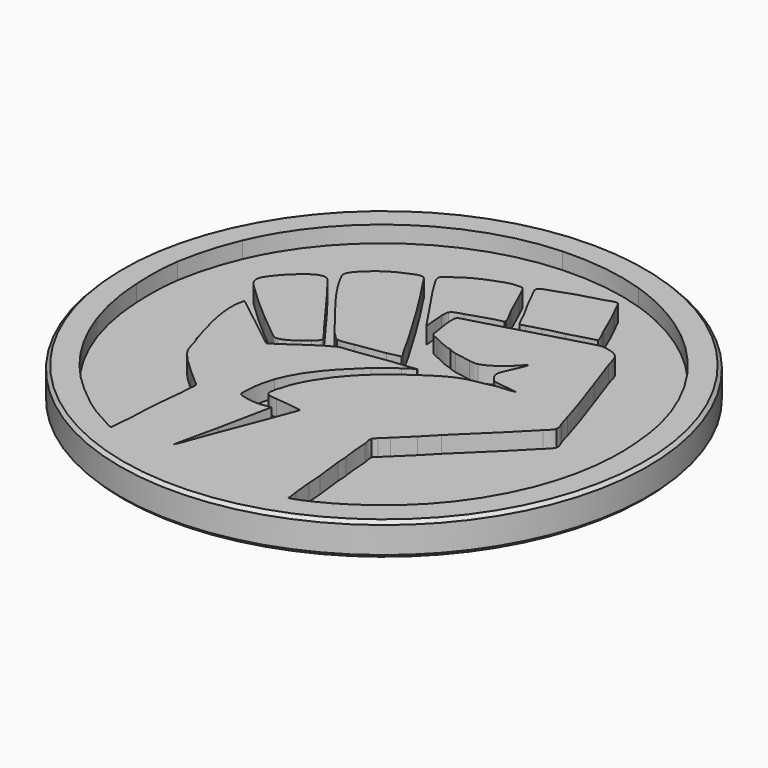
from build123d import *

# Parameters (mm, degrees)
POCKET_DEPTH = 1.25


with BuildPart() as part:
    # Sketch (on DatumPlane) → Revolution (revolve)
    with BuildSketch(Plane.YZ):
        Polygon((0, 0), (0, -2.5), (19.75, -2.5), (20, -2.25), (20, -0.25), (19.75, 0), align=None)
    revolve(axis=Axis((0, 0, 0), (0, 0, 1)))

    # Sketch005 → Pocket (cut)
    with BuildSketch(Plane.XY):
        with BuildLine():
            add(Edge.make_bspline(
                [(-7.633117, -16.27505), (-7.628128, -15.671095), (-7.524834, -15.0922), (-7.498531, -14.491406)],
                knots=[0, 0, 0, 0, 1, 1, 1, 1], degree=3))
            add(Edge.make_bspline(
                [(-7.498531, -14.491406), (-7.451524, -13.417607), (-7.437797, -12.328455), (-7.289732, -11.262783)],
                knots=[0, 0, 0, 0, 1, 1, 1, 1], degree=3))
            add(Edge.make_bspline(
                [(-7.289732, -11.262783), (-7.208655, -10.679374), (-7.150472, -10.06729), (-7.136067, -9.479139)],
                knots=[0, 0, 0, 0, 1, 1, 1, 1], degree=3))
            add(Edge.make_bspline(
                [(-7.136067, -9.479139), (-7.132116, -9.317482), (-7.05253, -9.0759), (-7.103194, -8.921919)],
                knots=[0, 0, 0, 0, 1, 1, 1, 1], degree=3))
            add(Edge.make_bspline(
                [(-7.103194, -8.921919), (-7.150337, -8.778776), (-7.389142, -8.650083), (-7.497651, -8.55187)],
                knots=[0, 0, 0, 0, 1, 1, 1, 1], degree=3))
            add(Edge.make_bspline(
                [(-7.497651, -8.55187), (-7.841488, -8.239845), (-8.192098, -7.935271), (-8.536228, -7.623923)],
                knots=[0, 0, 0, 0, 1, 1, 1, 1], degree=3))
            add(Edge.make_bspline(
                [(-8.536228, -7.623923), (-9.123702, -7.092442), (-9.804603, -6.494131), (-10.225407, -5.815669)],
                knots=[0, 0, 0, 0, 1, 1, 1, 1], degree=3))
            add(Edge.make_bspline(
                [(-10.225407, -5.815669), (-10.392912, -5.545639), (-10.44746, -5.194328), (-10.53592, -4.89585)],
                knots=[0, 0, 0, 0, 1, 1, 1, 1], degree=3))
            add(Edge.make_bspline(
                [(-10.53592, -4.89585), (-10.600176, -4.679103), (-10.715345, -4.46484), (-10.748851, -4.241095)],
                knots=[0, 0, 0, 0, 1, 1, 1, 1], degree=3))
            add(Edge.make_bspline(
                [(-10.748851, -4.241095), (-10.816584, -4.241095)],
                knots=[0, 0, 3, 3], degree=1))
            add(Edge.make_bspline(
                [(-10.816584, -4.241095), (-10.825389, -3.936746), (-10.971942, -3.670328), (-11.048345, -3.383139)],
                knots=[0, 0, 0, 0, 1, 1, 1, 1], degree=3))
            add(Edge.make_bspline(
                [(-11.048345, -3.383139), (-11.230706, -2.697903), (-11.445872, -1.977672), (-11.57829, -1.281374)],
                knots=[0, 0, 0, 0, 1, 1, 1, 1], degree=3))
            add(Edge.make_bspline(
                [(-11.57829, -1.281374), (-11.691766, -0.684711), (-11.759319, -0.017628), (-11.717663, 0.59055)],
                knots=[0, 0, 0, 0, 1, 1, 1, 1], degree=3))
            add(Edge.make_bspline(
                [(-11.717663, 0.59055), (-11.701994, 0.819624), (-11.625455, 1.039644), (-11.606806, 1.267883)],
                knots=[0, 0, 0, 0, 1, 1, 1, 1], degree=3))
            add(Edge.make_bspline(
                [(-11.606806, 1.267883), (-11.458086, 1.234175), (-11.384934, 1.130791), (-11.267259, 1.045018)],
                knots=[0, 0, 0, 0, 1, 1, 1, 1], degree=3))
            add(Edge.make_bspline(
                [(-11.267259, 1.045018), (-11.027889, 0.870537), (-10.805521, 0.672823), (-10.568228, 0.491637)],
                knots=[0, 0, 0, 0, 1, 1, 1, 1], degree=3))
            add(Edge.make_bspline(
                [(-10.568228, 0.491637), (-9.741791, -0.139457), (-8.944389, -0.812433), (-8.107251, -1.435354)],
                knots=[0, 0, 0, 0, 1, 1, 1, 1], degree=3))
            add(Edge.make_bspline(
                [(-8.107251, -1.435354), (-7.892468, -1.595205), (-7.685859, -1.768151), (-7.475073, -1.93342)],
                knots=[0, 0, 0, 0, 1, 1, 1, 1], degree=3))
            add(Edge.make_bspline(
                [(-7.475073, -1.93342), (-7.395418, -1.99596), (-7.283997, -2.119912), (-7.181562, -2.137749)],
                knots=[0, 0, 0, 0, 1, 1, 1, 1], degree=3))
            add(Edge.make_bspline(
                [(-7.181562, -2.137749), (-7.087074, -2.154231), (-6.98281, -2.039535), (-6.910628, -1.991219)],
                knots=[0, 0, 0, 0, 1, 1, 1, 1], degree=3))
            add(Edge.make_bspline(
                [(-6.910628, -1.991219), (-6.255873, -1.554339)],
                knots=[0, 0, 34.86291, 34.86291], degree=1))
            add(Edge.make_bspline(
                [(-6.255873, -1.554339), (-5.418892, -0.993733), (-4.572316, -0.333197), (-3.659428, 0.107972)],
                knots=[0, 0, 0, 0, 1, 1, 1, 1], degree=3))
            add(Edge.make_bspline(
                [(-3.659428, 0.107972), (-3.456635, 0.205983), (-3.181005, 0.210611), (-2.959517, 0.233121)],
                knots=[0, 0, 0, 0, 1, 1, 1, 1], degree=3))
            add(Edge.make_bspline(
                [(-2.959517, 0.233121), (-2.598092, 0.269833), (-2.236193, 0.323477), (-1.875784, 0.368926)],
                knots=[0, 0, 0, 0, 1, 1, 1, 1], degree=3))
            add(Edge.make_bspline(
                [(-1.875784, 0.368926), (-1.221119, 0.451471), (-0.56677, 0.581812), (0.088483, 0.655371)],
                knots=[0, 0, 0, 0, 1, 1, 1, 1], degree=3))
            add(Edge.make_bspline(
                [(0.088483, 0.655371), (0.679569, 0.721749), (1.287814, 0.730419), (1.872127, 0.838905)],
                knots=[0, 0, 0, 0, 1, 1, 1, 1], degree=3))
            add(Edge.make_bspline(
                [(1.872127, 0.838905), (1.872127, 0.816328)],
                knots=[0, 0, 1, 1], degree=1))
            add(Edge.make_bspline(
                [(1.872127, 0.816328), (1.58268, 0.731345), (1.30836, 0.504054), (1.059327, 0.338446)],
                knots=[0, 0, 0, 0, 1, 1, 1, 1], degree=3))
            add(Edge.make_bspline(
                [(1.059327, 0.338446), (0.554488, 0.00285), (0.054119, -0.342432), (-0.38766, -0.757795)],
                knots=[0, 0, 0, 0, 1, 1, 1, 1], degree=3))
            add(Edge.make_bspline(
                [(-0.38766, -0.757795), (-1.843362, -2.126008), (-3.243613, -3.510252), (-3.923385, -5.437717)],
                knots=[0, 0, 0, 0, 1, 1, 1, 1], degree=3))
            add(Edge.make_bspline(
                [(-3.923385, -5.437717), (-4.157946, -6.102858), (-4.314184, -6.807285), (-4.314184, -7.514872)],
                knots=[0, 0, 0, 0, 1, 1, 1, 1], degree=3))
            add(Edge.make_bspline(
                [(-4.314184, -7.514872), (-4.314184, -7.661628), (-4.384401, -8.066673), (-4.277992, -8.175724)],
                knots=[0, 0, 0, 0, 1, 1, 1, 1], degree=3))
            add(Edge.make_bspline(
                [(-4.277992, -8.175724), (-4.180501, -8.275743), (-3.926569, -8.315706), (-3.794895, -8.354766)],
                knots=[0, 0, 0, 0, 1, 1, 1, 1], degree=3))
            add(Edge.make_bspline(
                [(-3.794895, -8.354766), (-3.37908, -8.478266), (-2.895351, -8.508746), (-2.462806, -8.460204)],
                knots=[0, 0, 0, 0, 1, 1, 1, 1], degree=3))
            add(Edge.make_bspline(
                [(-2.462806, -8.460204), (-2.246669, -8.436046), (-2.051687, -8.372828), (-1.830628, -8.372828)],
                knots=[0, 0, 0, 0, 1, 1, 1, 1], degree=3))
            add(Edge.make_bspline(
                [(-1.830628, -8.372828), (-2.65693, -12.41425)],
                knots=[0, 0, 182.703075, 182.703075], degree=1))
            add(Edge.make_bspline(
                [(-2.65693, -12.41425), (-3.129144, -14.513983)],
                knots=[0, 0, 95.322805, 95.322805], degree=1))
            add(Edge.make_bspline(
                [(-3.129144, -14.513983), (-3.388495, -15.733183)],
                knots=[0, 0, 55.208253, 55.208253], degree=1))
            add(Edge.make_bspline(
                [(-3.388495, -15.733183), (-3.159263, -15.213895)],
                knots=[0, 0, 25.141269, 25.141269], degree=1))
            add(Edge.make_bspline(
                [(-3.159263, -15.213895), (-2.619293, -13.723761)],
                knots=[0, 0, 70.199537, 70.199537], degree=1))
            add(Edge.make_bspline(
                [(-2.619293, -13.723761), (-0.955649, -9.411406)],
                knots=[0, 0, 204.72049, 204.72049], degree=1))
            add(Edge.make_bspline(
                [(-0.955649, -9.411406), (-0.429903, -8.011583)],
                knots=[0, 0, 66.228678, 66.228678], degree=1))
            add(Edge.make_bspline(
                [(-0.429903, -8.011583), (-0.272762, -7.582606)],
                knots=[0, 0, 20.234663, 20.234663], degree=1))
            add(Edge.make_bspline(
                [(-0.272762, -7.582606), (-0.933636, -7.493649), (-1.613949, -7.354119), (-2.282184, -7.334476)],
                knots=[0, 0, 0, 0, 1, 1, 1, 1], degree=3))
            add(Edge.make_bspline(
                [(-2.282184, -7.334476), (-2.469083, -7.329057), (-2.968661, -7.282321), (-3.071774, -7.104183)],
                knots=[0, 0, 0, 0, 1, 1, 1, 1], degree=3))
            add(Edge.make_bspline(
                [(-3.071774, -7.104183), (-3.199135, -6.884275), (-3.004853, -6.426172), (-3.004673, -6.182783)],
                knots=[0, 0, 0, 0, 1, 1, 1, 1], degree=3))
            add(Edge.make_bspline(
                [(-3.004673, -6.182783), (-2.936939, -6.182783)],
                knots=[0, 0, 3, 3], degree=1))
            add(Edge.make_bspline(
                [(-2.936939, -6.182783), (-2.827573, -5.438846), (-2.421805, -4.697843), (-2.043898, -4.060472)],
                knots=[0, 0, 0, 0, 1, 1, 1, 1], degree=3))
            add(Edge.make_bspline(
                [(-2.043898, -4.060472), (-0.990667, -2.284053), (0.624028, -0.886714), (2.323683, 0.251906)],
                knots=[0, 0, 0, 0, 1, 1, 1, 1], degree=3))
            add(Edge.make_bspline(
                [(2.323683, 0.251906), (3.020659, 0.718724), (3.764822, 1.2351), (4.558883, 1.520506)],
                knots=[0, 0, 0, 0, 1, 1, 1, 1], degree=3))
            add(Edge.make_bspline(
                [(4.558883, 1.520506), (5.065528, 1.702573), (5.633359, 1.786246), (6.161679, 1.884008)],
                knots=[0, 0, 0, 0, 1, 1, 1, 1], degree=3))
            add(Edge.make_bspline(
                [(6.161679, 1.884008), (6.415679, 1.93106), (6.666744, 2.025706), (6.929549, 2.055193)],
                knots=[0, 0, 0, 0, 1, 1, 1, 1], degree=3))
            add(Edge.make_bspline(
                [(6.929549, 2.055193), (7.346787, 2.102042), (7.782764, 2.092288), (8.193905, 2.193572)],
                knots=[0, 0, 0, 0, 1, 1, 1, 1], degree=3))
            add(Edge.make_bspline(
                [(8.193905, 2.193572), (8.193905, 2.21615)],
                knots=[0, 0, 1, 1], degree=1))
            add(Edge.make_bspline(
                [(8.193905, 2.21615), (7.763798, 2.258957), (7.310437, 2.302555), (6.884394, 2.387741)],
                knots=[0, 0, 0, 0, 1, 1, 1, 1], degree=3))
            add(Edge.make_bspline(
                [(6.884394, 2.387741), (6.733349, 2.41795), (6.548437, 2.423143), (6.411164, 2.495979)],
                knots=[0, 0, 0, 0, 1, 1, 1, 1], degree=3))
            add(Edge.make_bspline(
                [(6.411164, 2.495979), (6.179516, 2.618892), (5.911066, 3.009127), (5.897293, 3.277305)],
                knots=[0, 0, 0, 0, 1, 1, 1, 1], degree=3))
            add(Edge.make_bspline(
                [(5.897293, 3.277305), (5.886908, 3.478586), (6.015827, 3.70319), (6.084689, 3.886905)],
                knots=[0, 0, 0, 0, 1, 1, 1, 1], degree=3))
            add(Edge.make_bspline(
                [(6.084689, 3.886905), (6.264634, 4.368512), (6.539405, 4.83953), (6.681194, 5.331883)],
                knots=[0, 0, 0, 0, 1, 1, 1, 1], degree=3))
            add(Edge.make_bspline(
                [(6.681194, 5.331883), (6.443224, 5.220868), (6.265085, 4.946322), (6.071594, 4.771277)],
                knots=[0, 0, 0, 0, 1, 1, 1, 1], degree=3))
            add(Edge.make_bspline(
                [(6.071594, 4.771277), (5.546661, 4.296399), (4.945866, 3.764714), (4.242794, 3.587976)],
                knots=[0, 0, 0, 0, 1, 1, 1, 1], degree=3))
            add(Edge.make_bspline(
                [(4.242794, 3.587976), (4.025821, 3.533428), (3.803205, 3.588676), (3.588038, 3.612044)],
                knots=[0, 0, 0, 0, 1, 1, 1, 1], degree=3))
            add(Edge.make_bspline(
                [(3.588038, 3.612044), (3.172833, 3.657177), (2.755596, 3.744394), (2.346261, 3.827706)],
                knots=[0, 0, 0, 0, 1, 1, 1, 1], degree=3))
            add(Edge.make_bspline(
                [(2.346261, 3.827706), (2.185733, 3.860399), (2.037171, 3.938202), (1.872127, 3.954639)],
                knots=[0, 0, 0, 0, 1, 1, 1, 1], degree=3))
            add(Edge.make_bspline(
                [(1.872127, 3.954639), (1.872127, 4.022372)],
                knots=[0, 0, 3, 3], degree=1))
            add(Edge.make_bspline(
                [(1.872127, 4.022372), (1.347194, 4.112706), (0.789071, 4.41159), (0.314261, 4.648973)],
                knots=[0, 0, 0, 0, 1, 1, 1, 1], degree=3))
            add(Edge.make_bspline(
                [(0.314261, 4.648973), (0.182858, 4.714674), (-0.104422, 4.783085), (-0.182722, 4.907173)],
                knots=[0, 0, 0, 0, 1, 1, 1, 1], degree=3))
            add(Edge.make_bspline(
                [(-0.182722, 4.907173), (-0.243546, 5.00358), (-0.238443, 5.15449), (-0.260321, 5.26415)],
                knots=[0, 0, 0, 0, 1, 1, 1, 1], degree=3))
            add(Edge.make_bspline(
                [(-0.260321, 5.26415), (-0.320243, 5.564367), (-0.346298, 5.866683), (-0.403781, 6.167261)],
                knots=[0, 0, 0, 0, 1, 1, 1, 1], degree=3))
            add(Edge.make_bspline(
                [(-0.403781, 6.167261), (-0.459322, 6.457589), (-0.475962, 6.752183), (-0.475962, 7.047794)],
                knots=[0, 0, 0, 0, 1, 1, 1, 1], degree=3))
            add(Edge.make_bspline(
                [(-0.475962, 7.047794), (-0.475962, 7.167095), (-0.498607, 7.311593), (-0.403081, 7.402198)],
                knots=[0, 0, 0, 0, 1, 1, 1, 1], degree=3))
            add(Edge.make_bspline(
                [(-0.403081, 7.402198), (-0.264589, 7.53351), (0.044208, 7.570921), (0.223949, 7.625086)],
                knots=[0, 0, 0, 0, 1, 1, 1, 1], degree=3))
            add(Edge.make_bspline(
                [(0.223949, 7.625086), (0.784104, 7.793809), (1.350355, 7.949596), (1.917283, 8.097164)],
                knots=[0, 0, 0, 0, 1, 1, 1, 1], degree=3))
            add(Edge.make_bspline(
                [(1.917283, 8.097164), (3.489599, 8.506454), (5.050175, 8.982439), (6.613461, 9.428102)],
                knots=[0, 0, 0, 0, 1, 1, 1, 1], degree=3))
            add(Edge.make_bspline(
                [(6.613461, 9.428102), (7.072015, 9.558872), (7.529893, 9.691359), (7.990705, 9.815446)],
                knots=[0, 0, 0, 0, 1, 1, 1, 1], degree=3))
            add(Edge.make_bspline(
                [(7.990705, 9.815446), (8.230029, 9.879883), (8.483804, 9.963963), (8.735772, 9.931225)],
                knots=[0, 0, 0, 0, 1, 1, 1, 1], degree=3))
            add(Edge.make_bspline(
                [(8.735772, 9.931225), (9.140365, 9.878664), (9.636851, 9.774332), (9.927653, 9.461517)],
                knots=[0, 0, 0, 0, 1, 1, 1, 1], degree=3))
            add(Edge.make_bspline(
                [(9.927653, 9.461517), (10.157946, 9.213703), (10.236742, 8.677842), (10.343535, 8.357305)],
                knots=[0, 0, 0, 0, 1, 1, 1, 1], degree=3))
            add(Edge.make_bspline(
                [(10.343535, 8.357305), (10.617855, 7.532133), (10.925139, 6.717369), (11.208038, 5.896328)],
                knots=[0, 0, 0, 0, 1, 1, 1, 1], degree=3))
            add(Edge.make_bspline(
                [(11.208038, 5.896328), (11.697299, 4.477156), (12.19559, 3.069161), (12.616214, 1.629128)],
                knots=[0, 0, 0, 0, 1, 1, 1, 1], degree=3))
            add(Edge.make_bspline(
                [(12.616214, 1.629128), (12.702461, 1.334352), (12.770646, 1.00991), (12.885116, 0.726017)],
                knots=[0, 0, 0, 0, 1, 1, 1, 1], degree=3))
            add(Edge.make_bspline(
                [(12.885116, 0.726017), (12.968202, 0.519362), (13.126246, 0.236734), (13.05919, 0.003528)],
                knots=[0, 0, 0, 0, 1, 1, 1, 1], degree=3))
            add(Edge.make_bspline(
                [(13.05919, 0.003528), (12.994844, -0.220308), (12.711718, -0.444935), (12.551416, -0.606072)],
                knots=[0, 0, 0, 0, 1, 1, 1, 1], degree=3))
            add(Edge.make_bspline(
                [(12.551416, -0.606072), (12.149306, -1.010215), (11.757807, -1.422259), (11.354794, -1.825272)],
                knots=[0, 0, 0, 0, 1, 1, 1, 1], degree=3))
            add(Edge.make_bspline(
                [(11.354794, -1.825272), (10.333149, -2.846917), (9.287798, -3.841919), (8.25622, -4.849791)],
                knots=[0, 0, 0, 0, 1, 1, 1, 1], degree=3))
            add(Edge.make_bspline(
                [(8.25622, -4.849791), (7.917101, -5.181233), (7.614559, -5.557605), (7.261669, -5.877758)],
                knots=[0, 0, 0, 0, 1, 1, 1, 1], degree=3))
            add(Edge.make_bspline(
                [(7.261669, -5.877758), (6.860461, -6.241711), (6.502604, -6.660529), (6.09214, -7.014097)],
                knots=[0, 0, 0, 0, 1, 1, 1, 1], degree=3))
            add(Edge.make_bspline(
                [(6.09214, -7.014097), (5.904744, -7.175528), (5.7467, -7.336056), (5.574431, -7.514872)],
                knots=[0, 0, 0, 0, 1, 1, 1, 1], degree=3))
            add(Edge.make_bspline(
                [(5.574431, -7.514872), (5.490668, -7.601797), (5.36062, -7.691882), (5.317496, -7.808383)],
                knots=[0, 0, 0, 0, 1, 1, 1, 1], degree=3))
            add(Edge.make_bspline(
                [(5.317496, -7.808383), (5.234861, -8.032807), (5.383197, -8.308255), (5.393357, -8.530872)],
                knots=[0, 0, 0, 0, 1, 1, 1, 1], degree=3))
            add(Edge.make_bspline(
                [(5.393357, -8.530872), (5.424966, -9.218817), (5.480508, -9.906762), (5.59159, -10.58545)],
                knots=[0, 0, 0, 0, 1, 1, 1, 1], degree=3))
            add(Edge.make_bspline(
                [(5.59159, -10.58545), (5.636294, -10.85819), (5.620038, -11.145379), (5.646454, -11.420828)],
                knots=[0, 0, 0, 0, 1, 1, 1, 1], degree=3))
            add(Edge.make_bspline(
                [(5.646454, -11.420828), (5.710575, -12.091614), (5.81511, -12.758787), (5.887133, -13.43025)],
                knots=[0, 0, 0, 0, 1, 1, 1, 1], degree=3))
            add(Edge.make_bspline(
                [(5.887133, -13.43025), (5.92687, -13.802783), (5.91671, -14.185477), (5.96164, -14.557107)],
                knots=[0, 0, 0, 0, 1, 1, 1, 1], degree=3))
            add(Edge.make_bspline(
                [(5.96164, -14.557107), (6.01673, -15.013404), (6.043146, -15.476926), (6.098236, -15.936383)],
                knots=[0, 0, 0, 0, 1, 1, 1, 1], degree=3))
            add(Edge.make_bspline(
                [(6.098236, -15.936383), (6.134134, -16.23441), (6.207061, -16.514826), (6.207061, -16.816917)],
                knots=[0, 0, 0, 0, 1, 1, 1, 1], degree=3))
            add(Edge.make_bspline(
                [(6.207061, -16.816917), (6.70332, -16.724574), (7.172938, -16.476444), (7.629461, -16.26489)],
                knots=[0, 0, 0, 0, 1, 1, 1, 1], degree=3))
            add(Edge.make_bspline(
                [(7.629461, -16.26489), (8.704163, -15.766824), (9.669589, -15.142549), (10.622145, -14.45212)],
                knots=[0, 0, 0, 0, 1, 1, 1, 1], degree=3))
            add(Edge.make_bspline(
                [(10.622145, -14.45212), (15.648636, -10.809647), (18.43225, -4.621756), (17.859452, 1.538817)],
                knots=[0, 0, 0, 0, 1, 1, 1, 1], degree=3))
            add(Edge.make_bspline(
                [(17.859452, 1.538817), (17.771173, 2.488957), (17.684022, 3.40347), (17.456438, 4.338461)],
                knots=[0, 0, 0, 0, 1, 1, 1, 1], degree=3))
            add(Edge.make_bspline(
                [(17.456438, 4.338461), (16.004461, 10.305587), (11.42185, 15.192728), (5.597461, 17.132046)],
                knots=[0, 0, 0, 0, 1, 1, 1, 1], degree=3))
            add(Edge.make_bspline(
                [(5.597461, 17.132046), (3.535658, 17.818591), (1.289395, 18.092234), (-0.882362, 17.997136)],
                knots=[0, 0, 0, 0, 1, 1, 1, 1], degree=3))
            add(Edge.make_bspline(
                [(-0.882362, 17.997136), (-7.548722, 17.705183), (-13.880072, 13.465753), (-16.522259, 7.273572)],
                knots=[0, 0, 0, 0, 1, 1, 1, 1], degree=3))
            add(Edge.make_bspline(
                [(-16.522259, 7.273572), (-17.135856, 5.835593), (-17.581518, 4.299808), (-17.830935, 2.758017)],
                knots=[0, 0, 0, 0, 1, 1, 1, 1], degree=3))
            add(Edge.make_bspline(
                [(-17.830935, 2.758017), (-18.030906, 1.521928), (-18.006658, 0.25545), (-17.952042, -0.989895)],
                knots=[0, 0, 0, 0, 1, 1, 1, 1], degree=3))
            add(Edge.make_bspline(
                [(-17.952042, -0.989895), (-17.743943, -5.735292), (-15.555276, -10.326483), (-11.953939, -13.445603)],
                knots=[0, 0, 0, 0, 1, 1, 1, 1], degree=3))
            add(Edge.make_bspline(
                [(-11.953939, -13.445603), (-10.925386, -14.336522), (-9.826345, -15.227215), (-8.583393, -15.810625)],
                knots=[0, 0, 0, 0, 1, 1, 1, 1], degree=3))
            add(Edge.make_bspline(
                [(-8.583393, -15.810625), (-8.275026, -15.955349), (-7.975396, -16.21409), (-7.633117, -16.27505)],
                knots=[0, 0, 0, 0, 1, 1, 1, 1], degree=3))
        make_face()
        with BuildLine():
            add(Edge.make_bspline(
                [(7.877816, 10.411883), (7.846885, 10.764164), (7.5755, 11.173409), (7.431679, 11.495617)],
                knots=[0, 0, 0, 0, 1, 1, 1, 1], degree=3))
            add(Edge.make_bspline(
                [(7.431679, 11.495617), (7.080369, 12.282384), (6.771053, 13.089156), (6.371878, 13.843705)],
                knots=[0, 0, 0, 0, 1, 1, 1, 1], degree=3))
            add(Edge.make_bspline(
                [(6.371878, 13.843705), (6.247701, 14.078176), (6.122845, 14.316191), (6.013343, 14.557502)],
                knots=[0, 0, 0, 0, 1, 1, 1, 1], degree=3))
            add(Edge.make_bspline(
                [(6.013343, 14.557502), (5.967962, 14.657363), (5.953964, 14.796555), (5.839043, 14.846091)],
                knots=[0, 0, 0, 0, 1, 1, 1, 1], degree=3))
            add(Edge.make_bspline(
                [(5.839043, 14.846091), (5.619361, 14.940737), (5.265116, 14.75289), (5.055368, 14.689469)],
                knots=[0, 0, 0, 0, 1, 1, 1, 1], degree=3))
            add(Edge.make_bspline(
                [(5.055368, 14.689469), (4.45209, 14.507199), (3.831878, 14.343713), (3.226794, 14.169503)],
                knots=[0, 0, 0, 0, 1, 1, 1, 1], degree=3))
            add(Edge.make_bspline(
                [(3.226794, 14.169503), (2.664156, 14.00753), (2.146673, 13.810426), (1.601194, 13.603591)],
                knots=[0, 0, 0, 0, 1, 1, 1, 1], degree=3))
            add(Edge.make_bspline(
                [(1.601194, 13.603591), (1.429829, 13.538612), (1.068358, 13.459477), (0.969693, 13.294478)],
                knots=[0, 0, 0, 0, 1, 1, 1, 1], degree=3))
            add(Edge.make_bspline(
                [(0.969693, 13.294478), (0.881866, 13.147881), (1.037653, 12.893023), (1.097484, 12.759972)],
                knots=[0, 0, 0, 0, 1, 1, 1, 1], degree=3))
            add(Edge.make_bspline(
                [(1.097484, 12.759972), (1.302038, 12.306768), (1.555135, 11.874223), (1.763528, 11.427003)],
                knots=[0, 0, 0, 0, 1, 1, 1, 1], degree=3))
            add(Edge.make_bspline(
                [(1.763528, 11.427003), (2.006917, 10.904621), (2.361388, 10.429855), (2.577231, 9.892594)],
                knots=[0, 0, 0, 0, 1, 1, 1, 1], degree=3))
            add(Edge.make_bspline(
                [(2.577231, 9.892594), (2.653544, 9.70276), (2.745436, 9.530921), (2.842972, 9.350728)],
                knots=[0, 0, 0, 0, 1, 1, 1, 1], degree=3))
            add(Edge.make_bspline(
                [(2.842972, 9.350728), (2.879096, 9.28401), (2.917253, 9.165725), (2.987244, 9.127614)],
                knots=[0, 0, 0, 0, 1, 1, 1, 1], degree=3))
            add(Edge.make_bspline(
                [(2.987244, 9.127614), (3.081845, 9.076137), (3.288657, 9.172047), (3.384838, 9.199231)],
                knots=[0, 0, 0, 0, 1, 1, 1, 1], degree=3))
            add(Edge.make_bspline(
                [(3.384838, 9.199231), (3.724182, 9.295119), (4.068268, 9.366735), (4.400838, 9.485404)],
                knots=[0, 0, 0, 0, 1, 1, 1, 1], degree=3))
            add(Edge.make_bspline(
                [(4.400838, 9.485404), (4.877907, 9.655641), (5.395841, 9.726399), (5.890972, 9.856854)],
                knots=[0, 0, 0, 0, 1, 1, 1, 1], degree=3))
            add(Edge.make_bspline(
                [(5.890972, 9.856854), (6.556565, 10.03217), (7.216739, 10.245959), (7.877816, 10.411883)],
                knots=[0, 0, 0, 0, 1, 1, 1, 1], degree=3))
        make_face(mode=Mode.SUBTRACT)
        with BuildLine():
            add(Edge.make_bspline(
                [(-1.198451, 5.512505), (-1.175873, 5.512505)],
                knots=[0, 0, 1, 1], degree=1))
            add(Edge.make_bspline(
                [(-1.175873, 5.512505), (-1.19818, 6.032336), (-1.311136, 6.547787), (-1.311339, 7.070372)],
                knots=[0, 0, 0, 0, 1, 1, 1, 1], degree=3))
            add(Edge.make_bspline(
                [(-1.311339, 7.070372), (-1.311407, 7.261448), (-1.336423, 7.505807), (-1.240445, 7.679882)],
                knots=[0, 0, 0, 0, 1, 1, 1, 1], degree=3))
            add(Edge.make_bspline(
                [(-1.240445, 7.679882), (-1.10324, 7.928757), (-0.636603, 8.003602), (-0.385651, 8.08206)],
                knots=[0, 0, 0, 0, 1, 1, 1, 1], degree=3))
            add(Edge.make_bspline(
                [(-0.385651, 8.08206), (0.412925, 8.331702), (1.250335, 8.669059), (2.075327, 8.808861)],
                knots=[0, 0, 0, 0, 1, 1, 1, 1], degree=3))
            add(Edge.make_bspline(
                [(2.075327, 8.808861), (2.143061, 8.876594)],
                knots=[0, 0, 4.242641, 4.242641], degree=1))
            add(Edge.make_bspline(
                [(2.143061, 8.876594), (1.978017, 9.327585), (1.703923, 9.75487), (1.491917, 10.186105)],
                knots=[0, 0, 0, 0, 1, 1, 1, 1], degree=3))
            add(Edge.make_bspline(
                [(1.491917, 10.186105), (1.227983, 10.72287), (1.00356, 11.288194), (0.749786, 11.834283)],
                knots=[0, 0, 0, 0, 1, 1, 1, 1], degree=3))
            add(Edge.make_bspline(
                [(0.749786, 11.834283), (0.633962, 12.083768), (0.518138, 12.33341), (0.394637, 12.57935)],
                knots=[0, 0, 0, 0, 1, 1, 1, 1], degree=3))
            add(Edge.make_bspline(
                [(0.394637, 12.57935), (0.347901, 12.672867), (0.294844, 12.819126), (0.199114, 12.872229)],
                knots=[0, 0, 0, 0, 1, 1, 1, 1], degree=3))
            add(Edge.make_bspline(
                [(0.199114, 12.872229), (0.109254, 12.92199), (-0.037998, 12.895484), (-0.137295, 12.895439)],
                knots=[0, 0, 0, 0, 1, 1, 1, 1], degree=3))
            add(Edge.make_bspline(
                [(-0.137295, 12.895439), (-0.466163, 12.895303), (-0.779768, 12.83712), (-1.087571, 12.729944)],
                knots=[0, 0, 0, 0, 1, 1, 1, 1], degree=3))
            add(Edge.make_bspline(
                [(-1.087571, 12.729944), (-1.993595, 12.414487), (-2.827979, 12.103749), (-3.614273, 11.525442)],
                knots=[0, 0, 0, 0, 1, 1, 1, 1], degree=3))
            add(Edge.make_bspline(
                [(-3.614273, 11.525442), (-3.841112, 11.358592), (-4.080368, 11.207547), (-4.291606, 11.020354)],
                knots=[0, 0, 0, 0, 1, 1, 1, 1], degree=3))
            add(Edge.make_bspline(
                [(-4.291606, 11.020354), (-4.364555, 10.955714), (-4.493045, 10.879469), (-4.503341, 10.773105)],
                knots=[0, 0, 0, 0, 1, 1, 1, 1], degree=3))
            add(Edge.make_bspline(
                [(-4.503341, 10.773105), (-4.518942, 10.612058), (-4.391061, 10.38768), (-4.314184, 10.253839)],
                knots=[0, 0, 0, 0, 1, 1, 1, 1], degree=3))
            add(Edge.make_bspline(
                [(-4.314184, 10.253839), (-4.117148, 9.910792), (-3.916296, 9.567294), (-3.697066, 9.237839)],
                knots=[0, 0, 0, 0, 1, 1, 1, 1], degree=3))
            add(Edge.make_bspline(
                [(-3.697066, 9.237839), (-2.87108, 7.996603), (-2.025362, 6.761124), (-1.198451, 5.512505)],
                knots=[0, 0, 0, 0, 1, 1, 1, 1], degree=3))
        make_face(mode=Mode.SUBTRACT)
        with BuildLine():
            add(Edge.make_bspline(
                [(0.133638, 1.516239), (0.080806, 1.762878), (-0.098439, 1.916836), (-0.208641, 2.127058)],
                knots=[0, 0, 0, 0, 1, 1, 1, 1], degree=3))
            add(Edge.make_bspline(
                [(-0.208641, 2.127058), (-0.469798, 2.625304), (-0.735561, 3.111562), (-1.02257, 3.597233)],
                knots=[0, 0, 0, 0, 1, 1, 1, 1], degree=3))
            add(Edge.make_bspline(
                [(-1.02257, 3.597233), (-1.931822, 5.135818), (-2.83394, 6.673681), (-3.801849, 8.176683)],
                knots=[0, 0, 0, 0, 1, 1, 1, 1], degree=3))
            add(Edge.make_bspline(
                [(-3.801849, 8.176683), (-4.123695, 8.676487), (-4.450892, 9.171957), (-4.780799, 9.666817)],
                knots=[0, 0, 0, 0, 1, 1, 1, 1], degree=3))
            add(Edge.make_bspline(
                [(-4.780799, 9.666817), (-4.896578, 9.840507), (-5.053087, 10.177142), (-5.240776, 10.275784)],
                knots=[0, 0, 0, 0, 1, 1, 1, 1], degree=3))
            add(Edge.make_bspline(
                [(-5.240776, 10.275784), (-5.541738, 10.433964), (-6.023006, 10.13), (-6.301028, 10.02928)],
                knots=[0, 0, 0, 0, 1, 1, 1, 1], degree=3))
            add(Edge.make_bspline(
                [(-6.301028, 10.02928), (-7.102291, 9.738998), (-7.83722, 9.212868), (-8.452352, 8.626433)],
                knots=[0, 0, 0, 0, 1, 1, 1, 1], degree=3))
            add(Edge.make_bspline(
                [(-8.452352, 8.626433), (-8.68558, 8.404064), (-8.963671, 8.135253), (-9.099973, 7.838017)],
                knots=[0, 0, 0, 0, 1, 1, 1, 1], degree=3))
            add(Edge.make_bspline(
                [(-9.099973, 7.838017), (-9.238984, 7.534932), (-9.108169, 7.405042), (-8.983494, 7.137225)],
                knots=[0, 0, 0, 0, 1, 1, 1, 1], degree=3))
            add(Edge.make_bspline(
                [(-8.983494, 7.137225), (-8.806552, 6.757038), (-8.58179, 6.41144), (-8.359941, 6.054372)],
                knots=[0, 0, 0, 0, 1, 1, 1, 1], degree=3))
            add(Edge.make_bspline(
                [(-8.359941, 6.054372), (-7.517, 4.697561), (-6.461602, 3.512385), (-5.516451, 2.238728)],
                knots=[0, 0, 0, 0, 1, 1, 1, 1], degree=3))
            add(Edge.make_bspline(
                [(-5.516451, 2.238728), (-5.238021, 1.863508), (-4.961128, 1.482846), (-4.607695, 1.171115)],
                knots=[0, 0, 0, 0, 1, 1, 1, 1], degree=3))
            add(Edge.make_bspline(
                [(-4.607695, 1.171115), (-4.509008, 1.084078), (-4.397022, 0.903658), (-4.267019, 0.868663)],
                knots=[0, 0, 0, 0, 1, 1, 1, 1], degree=3))
            add(Edge.make_bspline(
                [(-4.267019, 0.868663), (-3.886538, 0.766273), (-3.423965, 0.917657), (-3.049828, 0.969653)],
                knots=[0, 0, 0, 0, 1, 1, 1, 1], degree=3))
            add(Edge.make_bspline(
                [(-3.049828, 0.969653), (-2.318624, 1.071253), (-1.590265, 1.171724), (-0.859784, 1.304324)],
                knots=[0, 0, 0, 0, 1, 1, 1, 1], degree=3))
            add(Edge.make_bspline(
                [(-0.859784, 1.304324), (-0.529765, 1.364245), (-0.200671, 1.487091), (0.133638, 1.516239)],
                knots=[0, 0, 0, 0, 1, 1, 1, 1], degree=3))
        make_face(mode=Mode.SUBTRACT)
        with BuildLine():
            add(Edge.make_bspline(
                [(-10.048939, 6.674855), (-10.539216, 6.570297), (-10.967245, 6.176337), (-11.335873, 5.860677)],
                knots=[0, 0, 0, 0, 1, 1, 1, 1], degree=3))
            add(Edge.make_bspline(
                [(-11.335873, 5.860677), (-11.747804, 5.5079), (-12.09846, 5.110937), (-12.423015, 4.677466)],
                knots=[0, 0, 0, 0, 1, 1, 1, 1], degree=3))
            add(Edge.make_bspline(
                [(-12.423015, 4.677466), (-12.614565, 4.421638), (-12.798619, 4.155378), (-12.77988, 3.819172)],
                knots=[0, 0, 0, 0, 1, 1, 1, 1], degree=3))
            add(Edge.make_bspline(
                [(-12.77988, 3.819172), (-12.756489, 3.399835), (-12.237629, 3.028363), (-11.968073, 2.758017)],
                knots=[0, 0, 0, 0, 1, 1, 1, 1], degree=3))
            add(Edge.make_bspline(
                [(-11.968073, 2.758017), (-11.164733, 1.952396), (-10.32572, 1.231014), (-9.463611, 0.493556)],
                knots=[0, 0, 0, 0, 1, 1, 1, 1], degree=3))
            add(Edge.make_bspline(
                [(-9.463611, 0.493556), (-8.913571, 0.02308), (-8.361431, -0.438003), (-7.791162, -0.881747)],
                knots=[0, 0, 0, 0, 1, 1, 1, 1], degree=3))
            add(Edge.make_bspline(
                [(-7.791162, -0.881747), (-7.569222, -1.054241), (-7.327414, -1.317272), (-7.023517, -1.248862)],
                knots=[0, 0, 0, 0, 1, 1, 1, 1], degree=3))
            add(Edge.make_bspline(
                [(-7.023517, -1.248862), (-6.414617, -1.11204), (-5.794293, -0.614878), (-5.329303, -0.220105)],
                knots=[0, 0, 0, 0, 1, 1, 1, 1], degree=3))
            add(Edge.make_bspline(
                [(-5.329303, -0.220105), (-5.191331, -0.102972), (-4.895946, 0.114859), (-4.909424, 0.319617)],
                knots=[0, 0, 0, 0, 1, 1, 1, 1], degree=3))
            add(Edge.make_bspline(
                [(-4.909424, 0.319617), (-4.918568, 0.45847), (-5.013282, 0.530764), (-5.084538, 0.636586)],
                knots=[0, 0, 0, 0, 1, 1, 1, 1], degree=3))
            add(Edge.make_bspline(
                [(-5.084538, 0.636586), (-5.276223, 0.921292), (-5.497982, 1.177279), (-5.701701, 1.450515)],
                knots=[0, 0, 0, 0, 1, 1, 1, 1], degree=3))
            add(Edge.make_bspline(
                [(-5.701701, 1.450515), (-6.48664, 2.503407), (-7.251914, 3.576326), (-8.042385, 4.631972)],
                knots=[0, 0, 0, 0, 1, 1, 1, 1], degree=3))
            add(Edge.make_bspline(
                [(-8.042385, 4.631972), (-8.43955, 5.162392), (-8.837303, 5.688002), (-9.244019, 6.212417)],
                knots=[0, 0, 0, 0, 1, 1, 1, 1], degree=3))
            add(Edge.make_bspline(
                [(-9.244019, 6.212417), (-9.466004, 6.49859), (-9.652699, 6.759363), (-10.048939, 6.674855)],
                knots=[0, 0, 0, 0, 1, 1, 1, 1], degree=3))
        make_face(mode=Mode.SUBTRACT)
    extrude(amount=-POCKET_DEPTH, mode=Mode.SUBTRACT)


solid = part.part
